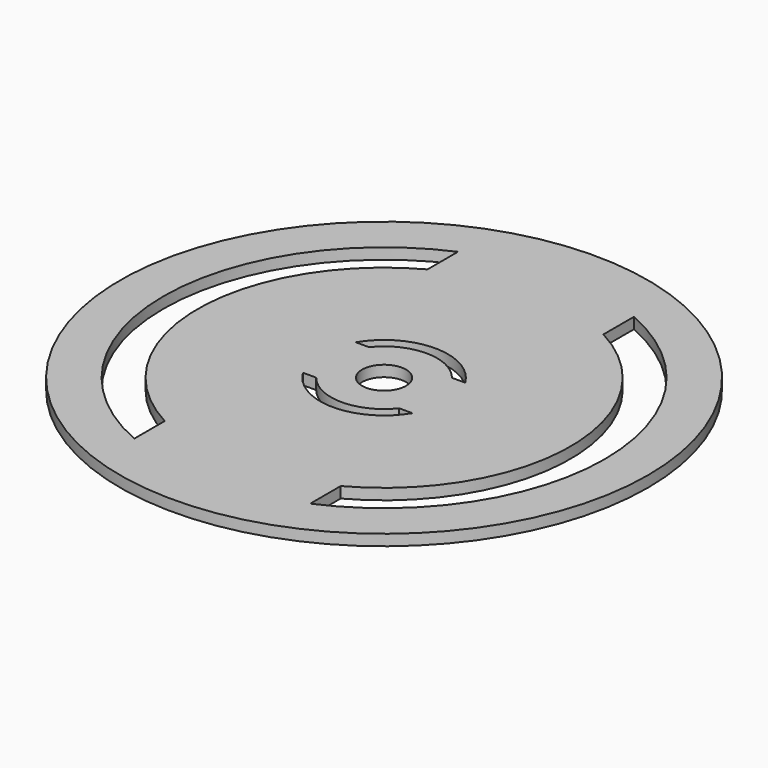
from build123d import *

# Parameters (mm, degrees)
F0_R     = 152.4
F0_R_2   = 12.7
F1_DEPTH = 6.35


with BuildPart() as f1:
    # F0 (on Top) → F1 (new body)
    with BuildSketch(Plane.XY):
        Circle(F0_R)
        with BuildLine():
            ThreePointArc((31.594744, -19.05), (0, -36.8935), (-31.594744, -19.05))
            Line((-31.594744, -19.05), (-23.955917, -19.05))
            ThreePointArc((-23.955917, -19.05), (0, -30.607), (23.955917, -19.05))
            Line((23.955917, -19.05), (31.594744, -19.05))
        make_face(mode=Mode.SUBTRACT)
        with BuildLine():
            ThreePointArc((-50.8, -116.813009), (-127.381, 0), (-50.8, 116.813009))
            Line((-50.8, 116.813009), (-50.8, 94.817982))
            ThreePointArc((-50.8, 94.817982), (-107.569, 0), (-50.8, -94.817982))
            Line((-50.8, -94.817982), (-50.8, -116.813009))
        make_face(mode=Mode.SUBTRACT)
        Circle(F0_R_2, mode=Mode.SUBTRACT)
        with BuildLine():
            Line((-23.955917, 19.05), (-31.594744, 19.05))
            ThreePointArc((-31.594744, 19.05), (0, 36.8935), (31.594744, 19.05))
            Line((31.594744, 19.05), (23.955917, 19.05))
            ThreePointArc((23.955917, 19.05), (0, 30.607), (-23.955917, 19.05))
        make_face(mode=Mode.SUBTRACT)
        with BuildLine():
            Line((50.8, 94.817982), (50.8, 116.813009))
            ThreePointArc((50.8, 116.813009), (127.381, 0), (50.8, -116.813009))
            Line((50.8, -116.813009), (50.8, -94.817982))
            ThreePointArc((50.8, -94.817982), (107.569, 0), (50.8, 94.817982))
        make_face(mode=Mode.SUBTRACT)
    extrude(amount=F1_DEPTH)


solid = f1.part
